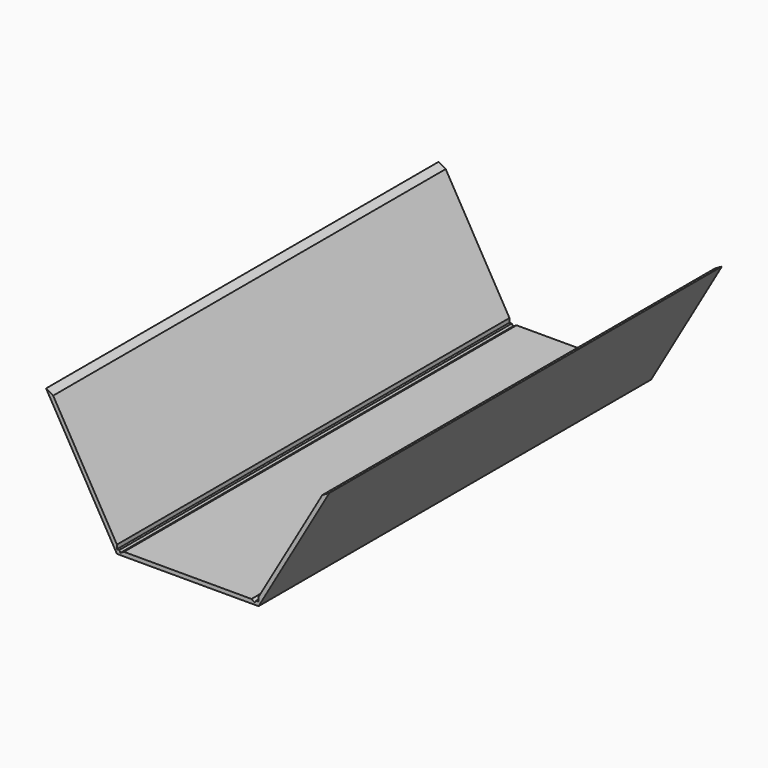
from build123d import *

# Parameters (mm, degrees)
F1_DEPTH = 152.4
F2_DEPTH = 74.93
F3_DEPTH = 74.93
F4_DEPTH = 74.93


with BuildPart() as f1:
    # F0 (on Front) → F1 (new body)
    with BuildSketch(Plane.XZ):
        Polygon((43.9940905122, 38.1), (21.9970452561, 76.2), (-21.9970452561, 76.2), (-43.9940905122, 38.1), (-21.9970452561, 0), (21.9970452561, 0), align=None)
    extrude(amount=F1_DEPTH)

    # F2 (cut): a face of the model
    f2_faces = [f1.faces().sort_by_distance(p)[0] for p in [
        (32.9955678842, -76.2, 57.15),
    ]]
    extrude(f2_faces, amount=-F2_DEPTH, mode=Mode.SUBTRACT)

    # F3 (cut): a face of the model
    f3_faces = [f1.faces().sort_by_distance(p)[0] for p in [
        (0, -76.2, 76.2),
    ]]
    extrude(f3_faces, amount=-F3_DEPTH, mode=Mode.SUBTRACT)

    # F4 (cut): a face of the model
    f4_faces = [f1.faces().sort_by_distance(p)[0] for p in [
        (-32.9955678842, -76.2, 57.15),
    ]]
    extrude(f4_faces, amount=-F4_DEPTH, mode=Mode.SUBTRACT)


solid = f1.part
